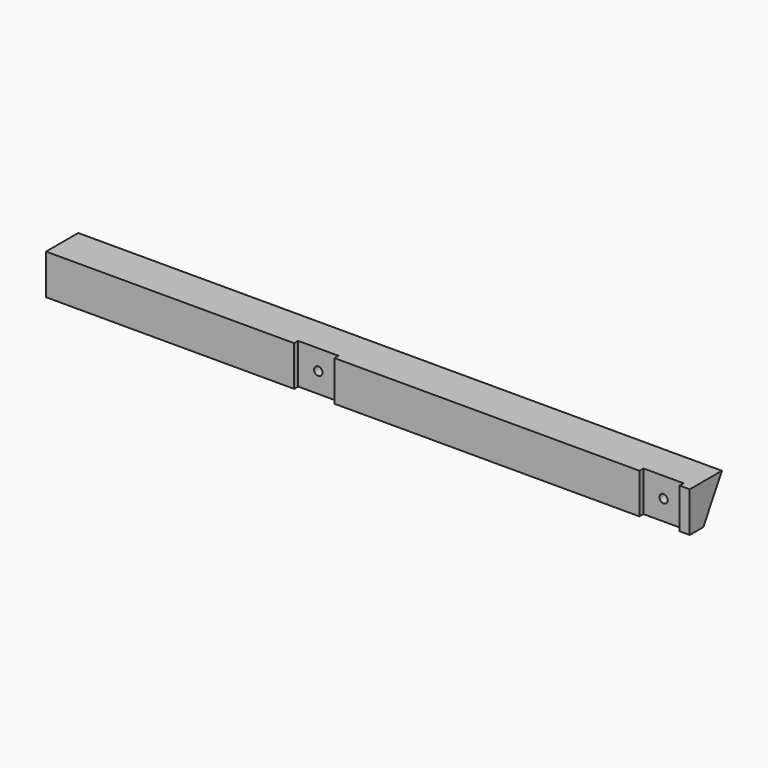
from build123d import *

# Parameters (mm, degrees)
F0_W          = 38.1
F0_H          = 38.1
F1_DEPTH      = 304.8
F1_DEPTH_BACK = 304.8
F2_W          = 38.1
F2_H          = 4.7625
F3_DEPTH      = 38.101
F5_D          = 7.9375
F7_DEPTH      = 609.601


with BuildPart() as f1:
    # F0 (on Right) → F1 (new body, two sides)
    with BuildSketch(Plane.YZ) as f1_sk:
        with Locations((19.05, 19.05)):
            Rectangle(F0_W, F0_H)
    extrude(amount=F1_DEPTH)
    extrude(f1_sk.sketch, amount=-F1_DEPTH_BACK)

    # F2 (on face) → F3 (cut, through all)
    with BuildSketch(Plane.XY.offset(38.1)):
        with Locations((-50.8, 2.38125)):
            Rectangle(F2_W, F2_H)
        with Locations((276.225, 2.38125)):
            Rectangle(F2_W, F2_H)
    extrude(amount=-F3_DEPTH, mode=Mode.SUBTRACT)

    # F5 (through all)
    with Locations(Plane.XZ.offset(-4.7625)):
        with Locations((-50.8, 19.05), (276.225, 19.05)):
            Hole(F5_D / 2)

    # F6 (on face) → F7 (cut, through all)
    with BuildSketch(Plane.YZ.offset(304.8)):
        Polygon((38.1, 0), (38.1, 38.1), (16.102955, 0), align=None)
    extrude(amount=-F7_DEPTH, mode=Mode.SUBTRACT)


solid = f1.part
